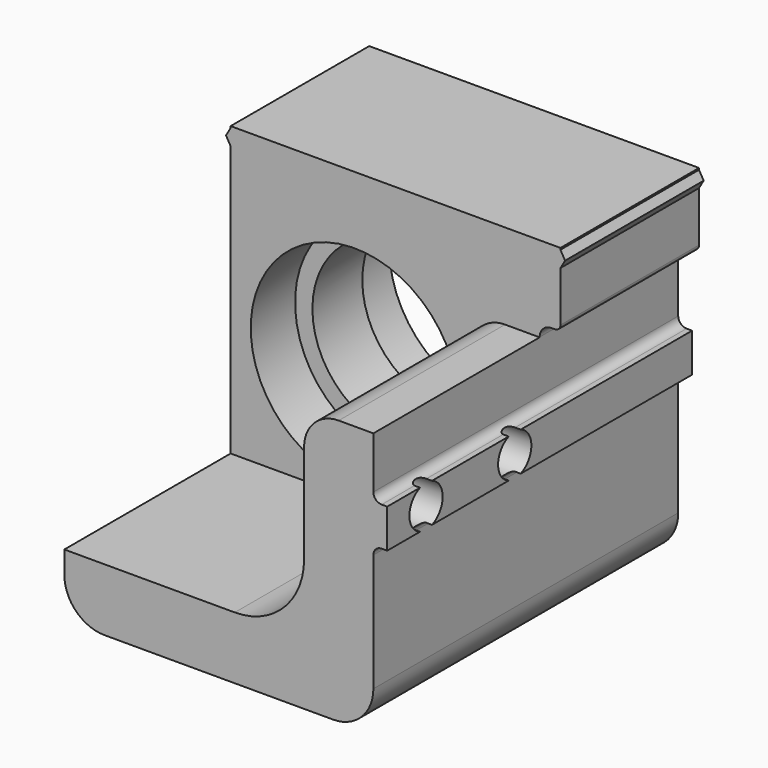
from build123d import *

# Parameters (mm, degrees)
F1_DEPTH  = 55
F3_DEPTH  = 30
F4_R      = 3
F5_DEPTH  = 25
F6_R      = 12.5
F7_DEPTH  = 25
F8_R      = 15
F9_DEPTH  = 38
F10_R     = 15
F11_DEPTH = 8
F12_R     = 6.5
F13_DEPTH = 17
F14_R     = 10


with BuildPart() as f1:
    # F0 (on Front) → F1 (new body)
    with BuildSketch(Plane.XZ):
        with BuildLine():
            Line((-23.699999, 23.799999), (-23.699999, 23.558845))
            Line((-23.699999, 23.558845), (-24.369059, 22.399999))
            Line((-24.369059, 22.399999), (-23.699999, 21.241153))
            Line((-23.699999, 21.241153), (-23.699999, -21.000001))
            ThreePointArc((-23.699999, -21.000001), (-22.001218, -25.10122), (-17.899999, -26.8))
            Line((-17.899999, -26.8), (15.100001, -26.8))
            ThreePointArc((15.100001, -26.8), (19.20122, -25.10122), (20.9, -21.000001))
            Line((20.9, -21.000001), (20.9, -4.000001))
            ThreePointArc((20.9, -4.000001), (21.251472, -3.151472), (22.100001, -2.8))
            Line((22.100001, -2.8), (22.9, -2.8))
            Line((22.9, -2.8), (22.9, 2.799999))
            Line((22.9, 2.799999), (22.100001, 2.799999))
            ThreePointArc((22.100001, 2.799999), (21.251472, 3.151471), (20.9, 3.999999))
            Line((20.9, 3.999999), (20.9, 11.499999))
            ThreePointArc((20.9, 11.499999), (21.397919, 12.702081), (22.600001, 13.2))
            Line((22.600001, 13.2), (23.100001, 13.2))
            ThreePointArc((23.100001, 13.2), (23.665686, 13.434314), (23.9, 13.999999))
            Line((23.9, 13.999999), (23.9, 21.241153))
            Line((23.9, 21.241153), (24.56906, 22.399999))
            Line((24.56906, 22.399999), (23.9, 23.558845))
            Line((23.9, 23.558845), (23.9, 23.799999))
            Line((23.9, 23.799999), (-23.699999, 23.799999))
        make_face()
    extrude(amount=F1_DEPTH)

    # F2 (on face) → F3 (cut)
    with BuildSketch(Plane.XZ.offset(55)):
        with BuildLine():
            Line((15.9, 11.457851), (26.682628, 11.457851))
            Line((26.682628, 11.457851), (26.682628, 26.709846))
            Line((26.682628, 26.709846), (-26.825872, 26.709846))
            Line((-26.825872, 26.709846), (-26.825872, -17.8))
            Line((-26.825872, -17.8), (5.9, -17.8))
            Line((5.9, -17.8), (10.9, -17.8))
            Line((10.9, -17.8), (10.9, -11.8))
            Line((10.9, -11.8), (10.9, 6.457851))
            ThreePointArc((10.9, 6.457851), (12.364466, 9.993385), (15.9, 11.457851))
        make_face()
    extrude(amount=-F3_DEPTH, mode=Mode.SUBTRACT)

    # F4 (on face) → F5 (cut)
    with BuildSketch(Plane.YZ.offset(22.9)):
        with Locations((-48, -1e-06)):
            Circle(F4_R)
        with Locations((-32, -1e-06)):
            Circle(F4_R)
    extrude(amount=-F5_DEPTH, mode=Mode.SUBTRACT)

    # F6 (on face) → F7 (cut, through all)
    with BuildSketch(Plane(origin=(0, 0, 0), x_dir=(-1, 0, 0), z_dir=(0, 1, 0))):
        with Locations((5.799999, -0.9)):
            Circle(F6_R)
    extrude(amount=-F7_DEPTH, mode=Mode.SUBTRACT)

    # F8 (on face) → F9 (cut)
    with BuildSketch(Plane.XZ.offset(55)):
        with Locations((-5.799999, -0.9)):
            Circle(F8_R)
    extrude(amount=-F9_DEPTH, mode=Mode.SUBTRACT)

    # F10 (on face) → F11 (cut)
    with BuildSketch(Plane(origin=(0, 0, 0), x_dir=(-1, 0, 0), z_dir=(0, 1, 0))):
        with Locations((5.799999, -0.9)):
            Circle(F10_R)
    extrude(amount=-F11_DEPTH, mode=Mode.SUBTRACT)

    # F12 (on Right) → F13 (cut)
    with BuildSketch(Plane.YZ):
        with Locations((-32, 0)):
            Circle(F12_R)
        with Locations((-48, 0)):
            Circle(F12_R)
    extrude(amount=F13_DEPTH, mode=Mode.SUBTRACT)

    # F14
    f14_edges = [f1.edges().sort_by_distance(p)[0] for p in [
        (10.9, -40, -17.8),
    ]]
    fillet(f14_edges, radius=F14_R)


solid = f1.part
